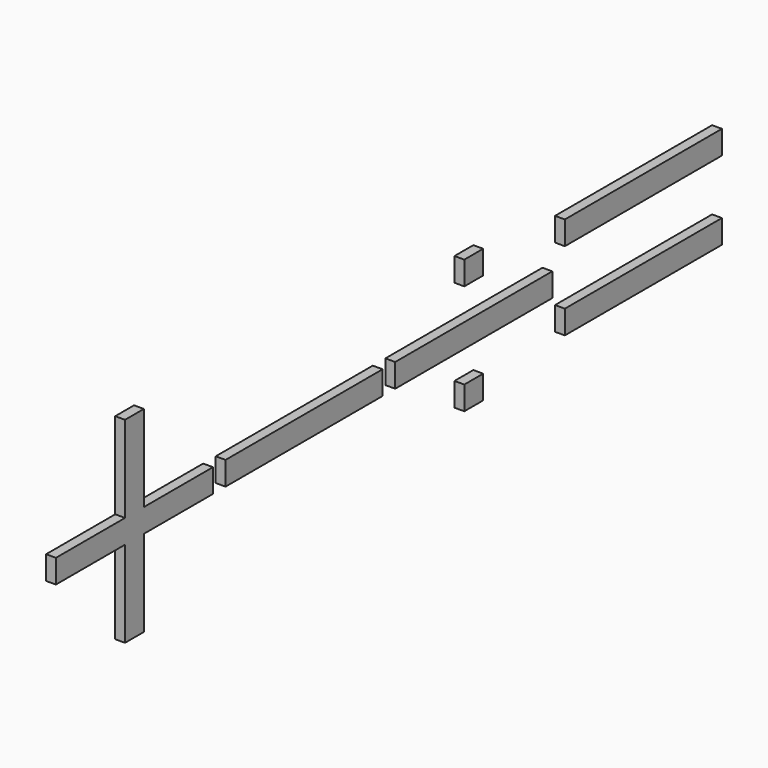
from build123d import *

# Parameters (mm, degrees)
F0_W     = 500
F0_H     = 60
F0_W_2   = 60
F1_DEPTH = 25


with BuildPart() as f1:
    # F0 (on Right) → F1 (new body)
    with BuildSketch(Plane.YZ):
        Polygon((-762.742758, 212.694136), (-792.742758, 212.694136), (-792.742758, -7.305864), (-1012.742758, -7.305864), (-1012.742758, -37.305864), (-1012.742758, -67.305864), (-792.742758, -67.305864), (-792.742758, -287.305864), (-762.742758, -287.305864), (-732.742758, -287.305864), (-732.742758, -67.305864), (-512.742758, -67.305864), (-512.742758, -37.305864), (-512.742758, -7.305864), (-732.742758, -7.305864), (-732.742758, 212.694136), align=None)
        Polygon((317.257242, -7.305864), (67.257242, -7.305864), (67.257242, -67.305864), (317.257242, -67.305864), (567.257242, -67.305864), (567.257242, -7.305864), align=None)
        with Locations((-222.742758, -37.305864)):
            Rectangle(F0_W, F0_H)
        Polygon((287.257242, 72.694136), (317.257242, 72.694136), (317.257242, 102.694136), (317.257242, 132.694136), (287.257242, 132.694136), align=None)
        Polygon((317.257242, 102.694136), (317.257242, 72.694136), (347.257242, 72.694136), (347.257242, 132.694136), (317.257242, 132.694136), align=None)
        with Locations((317.257242, -177.305864)):
            Rectangle(F0_W_2, F0_H)
        with Locations((857.257242, 62.694136)):
            Rectangle(F0_W, F0_H)
        with Locations((857.257242, -137.305864)):
            Rectangle(F0_W, F0_H)
    extrude(amount=F1_DEPTH)


solid = f1.part
